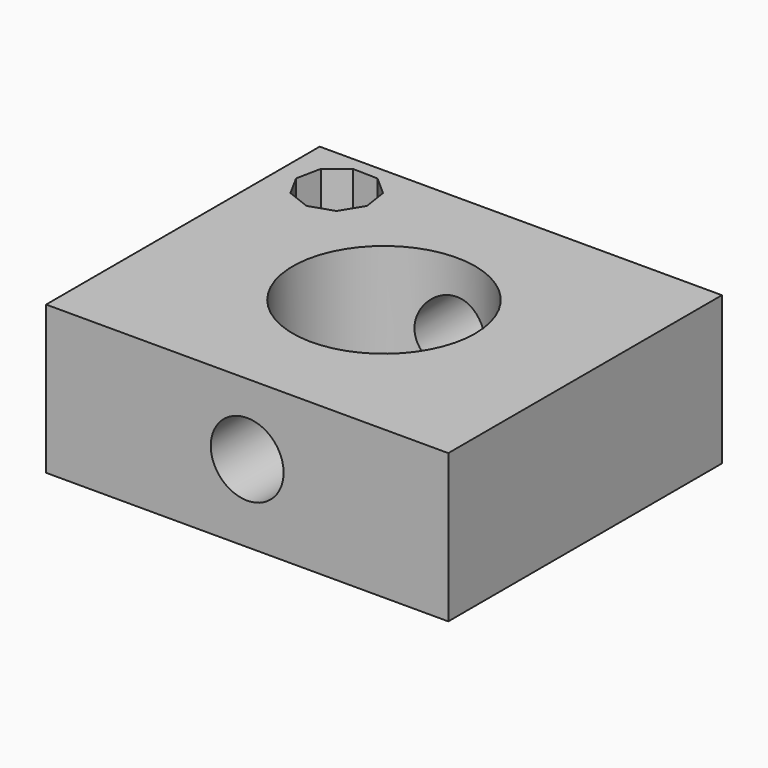
from build123d import *

# Parameters (mm, degrees)
F0_W     = 52.410952
F0_H     = 44.566952
F0_R     = 11.883232
F1_DEPTH = 19.304
F2_R     = 4.74542
F3_DEPTH = 58.4708
F5_DEPTH = 25.4


with BuildPart() as f1:
    # F0 (on Top) → F1 (new body)
    with BuildSketch(Plane.XY):
        Rectangle(F0_W, F0_H)
        Circle(F0_R, mode=Mode.SUBTRACT)
    extrude(amount=F1_DEPTH)

    # F2 (on face) → F3 (cut)
    with BuildSketch(Plane.XZ.offset(22.283476)):
        with Locations((0, 10.076289)):
            Circle(F2_R)
    extrude(amount=-F3_DEPTH, mode=Mode.SUBTRACT)

    # F4 (on face) → F5 (cut)
    with BuildSketch(Plane.XY.offset(19.304)):
        Polygon((-15.993849, 12.278491), (-14.284679, 15.070137), (-14.769814, 18.307295), (-17.222254, 20.475263), (-20.494475, 20.559624), (-23.055369, 18.520906), (-23.706664, 15.313047), (-22.143613, 12.437039), (-19.097584, 11.2386), align=None)
    extrude(amount=-F5_DEPTH, mode=Mode.SUBTRACT)


solid = f1.part
